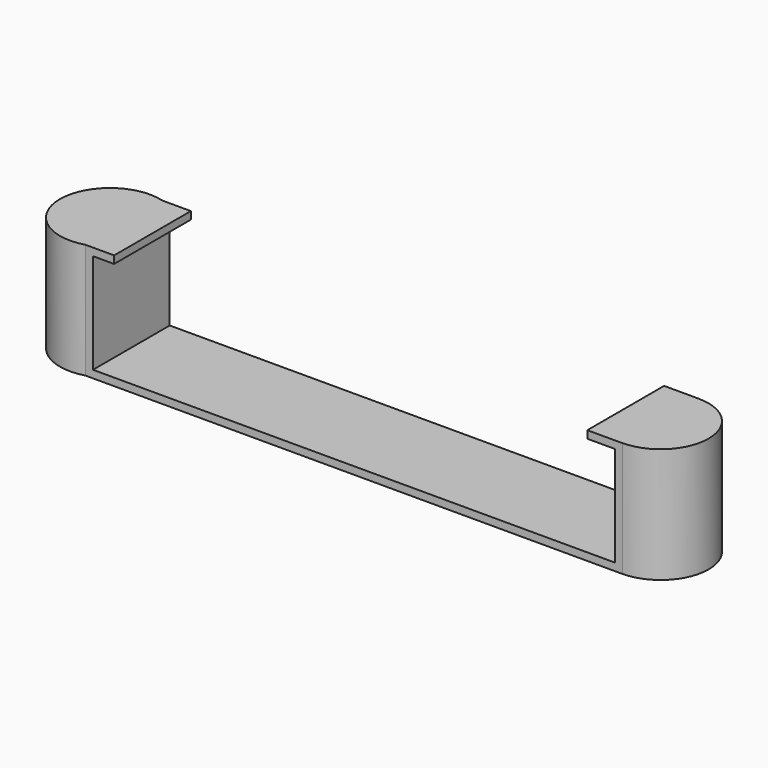
from build123d import *

# Parameters (mm, degrees)
F1_DEPTH = 15.24
F2_W     = 4.192693
F2_H     = 1
F2_W_2   = 58.441006
F3_DEPTH = 25.4


with BuildPart() as f1:
    # F0 (on Top) → F1 (new body)
    with BuildSketch(Plane.XY):
        with BuildLine():
            Line((44.219377, 5.810416), (-26.841487, 5.810416))
            ThreePointArc((-26.841487, 5.810416), (-35.289036, -0.539584), (-26.841487, -6.889584))
            Line((-26.841487, -6.889584), (44.219377, -6.889584))
            Line((44.219377, -6.889584), (44.219377, -6.875325))
            ThreePointArc((44.219377, -6.875325), (50.555118, -0.539584), (44.219377, 5.796157))
            Line((44.219377, 5.796157), (44.219377, 5.810416))
        make_face()
    extrude(amount=F1_DEPTH)

    # F2 (on face) → F3 (cut)
    with BuildSketch(Plane.XZ.offset(6.889584)):
        Polygon((-25.841487, 14.24), (-25.841487, 1), (43.219377, 1), (43.219377, 14.24), (39.588068, 14.24), (-18.852938, 14.24), (-23.045631, 14.24), align=None)
        with Locations((-20.949284, 14.74)):
            Rectangle(F2_W, F2_H)
        with Locations((10.367565, 14.74)):
            Rectangle(F2_W_2, F2_H)
    extrude(amount=-F3_DEPTH, mode=Mode.SUBTRACT)


solid = f1.part
